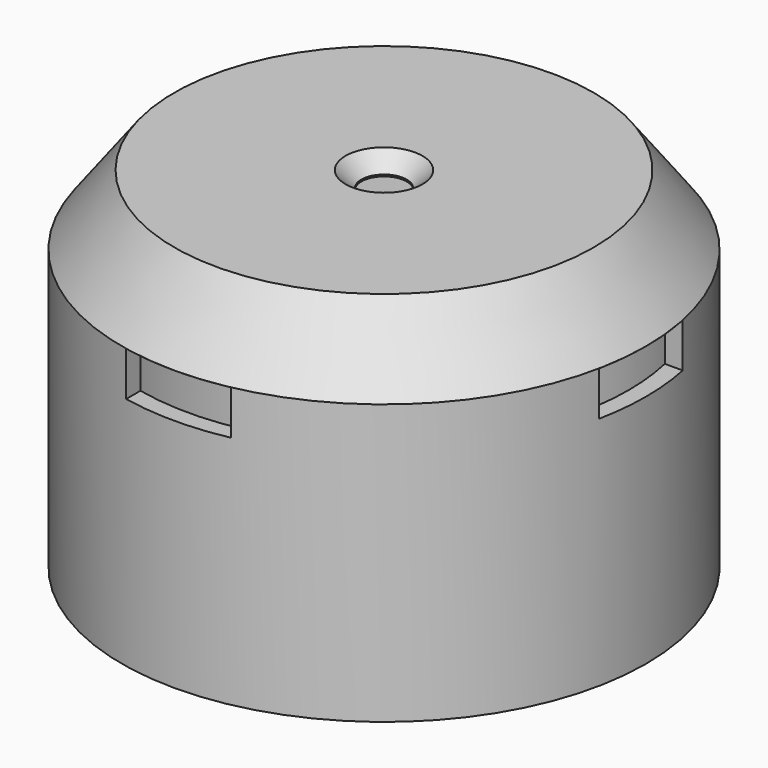
from build123d import *

# Parameters (mm, degrees)
SKETCH_R           = 1.3
POCKET_DEPTH       = 1
SKETCH002_W        = 6
SKETCH002_H        = 2.537703
POCKET001_DEPTH    = 3
POLARPATTERN_COUNT = 4
SKETCH003_R        = 3
SKETCH003_R_2      = 1.3
PAD_DEPTH          = 3
CHAMFER_SIZE       = 0.9


with BuildPart() as part:
    # Sketch001 → Revolution (revolve)
    with BuildSketch(Plane.XZ):
        Polygon((0, 20), (12, 20), (15, 16), (15, 0), (14, 0), (14, 15.999992), (11.749994, 19), (0, 19), align=None)
    revolve(axis=Axis((0, 0, 0), (0, 0, 1)))

    # Sketch (on Face1 of Revolution) → Pocket (cut)
    with BuildSketch(Plane(origin=(0, 0, 20), x_dir=(-1, 0, 0), z_dir=(0, 0, 1))):
        Circle(SKETCH_R)
    extrude(amount=-POCKET_DEPTH, mode=Mode.SUBTRACT)

    # Sketch002 (on DatumPlane) → Pocket001 (cut)
    with BuildSketch(Plane(origin=(0, 15, 8), x_dir=(1, 0, 0), z_dir=(0, 1, 0))):
        with Locations((0, -6.731148)):
            Rectangle(SKETCH002_W, SKETCH002_H)
    pocket001 = extrude(amount=-POCKET001_DEPTH, mode=Mode.SUBTRACT)

    # PolarPattern: Pocket001 ×4 about axis
    polarpattern_axis = Axis((0, 0, 0), (0, 0, 1))
    for i in range(1, POLARPATTERN_COUNT):
        add(pocket001.rotate(polarpattern_axis, i * 360 / POLARPATTERN_COUNT), mode=Mode.SUBTRACT)

    # Sketch003 (on Face9 of PolarPattern) → Pad (join)
    with BuildSketch(Plane(origin=(0, 0, 19), x_dir=(1, 0, 0), z_dir=(0, 0, -1))):
        with Locations((-8.5, 0)):
            Circle(SKETCH003_R)
        with Locations((-8.5, 0)):
            Circle(SKETCH003_R_2, mode=Mode.SUBTRACT)
        with Locations((0, 8.5)):
            Circle(SKETCH003_R)
        with Locations((0, 8.5)):
            Circle(SKETCH003_R_2, mode=Mode.SUBTRACT)
        with Locations((8.5, 0)):
            Circle(SKETCH003_R)
        with Locations((8.5, 0)):
            Circle(SKETCH003_R_2, mode=Mode.SUBTRACT)
        with Locations((0, -8.5)):
            Circle(SKETCH003_R)
        with Locations((0, -8.5)):
            Circle(SKETCH003_R_2, mode=Mode.SUBTRACT)
    extrude(amount=PAD_DEPTH)

    # Chamfer
    chamfer_edges = [part.edges().sort_by_distance(p)[0] for p in [
        (1.3, 0, 20),
    ]]
    chamfer(chamfer_edges, length=CHAMFER_SIZE)


solid = part.part
